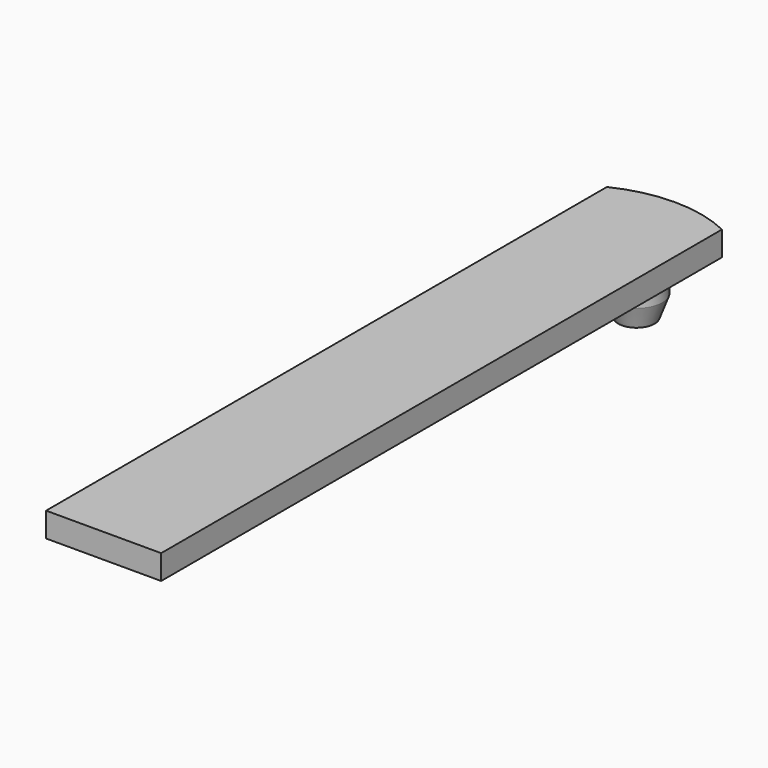
from build123d import *

# Parameters (mm, degrees)
F1_DEPTH = 5.2
F2_R     = 5
F3_DEPTH = 5.4
F5_R     = 5.5
F6_DEPTH = 2.2
F10_R    = 5.5
F8_R     = 3.85


with BuildPart() as f1:
    # F0 (on Top) → F1 (new body)
    with BuildSketch(Plane.XY):
        Polygon((-12.2, 0), (0, 0), (12.2, 0), (12.2, 148.6), (0, 148.6), (-12.2, 148.6), align=None)
        with BuildLine():
            Line((0, 148.6), (12.2, 148.6))
            ThreePointArc((12.2, 148.6), (6.2585940913, 150.6910171122), (0, 151.4))
            Line((0, 151.4), (0, 148.6))
        make_face()
        with BuildLine():
            ThreePointArc((0, 151.4), (-6.2585940913, 150.6910171122), (-12.2, 148.6))
            Line((-12.2, 148.6), (0, 148.6))
            Line((0, 148.6), (0, 151.4))
        make_face()
    extrude(amount=-F1_DEPTH)

    # F2 (on face) → F3 (join)
    with BuildSketch(Plane(origin=(0, 0, -5.2), x_dir=(1, 0, 0), z_dir=(0, 0, -1))):
        with Locations((0, -141.2)):
            Circle(F2_R)
    extrude(amount=F3_DEPTH)

    # F5 (on offset) → F6 (join)
    with BuildSketch(Plane(origin=(0, 0, -10.6), x_dir=(1, 0, 0), z_dir=(0, 0, -1))):
        with Locations((0, -141.2)):
            Circle(F5_R)
    extrude(amount=F6_DEPTH)

    # F10 (on offset) → F11 section 0
    with BuildSketch(Plane(origin=(0, 0, -12.8), x_dir=(1, 0, 0), z_dir=(0, 0, -1))):
        with Locations((0, -141.2)):
            Circle(F10_R)
    # F8 (on offset) → F11 section 1
    with BuildSketch(Plane(origin=(0, 0, -17.3), x_dir=(1, 0, 0), z_dir=(0, 0, -1))):
        with Locations((0, -141.2)):
            Circle(F8_R)
    loft()


solid = f1.part
